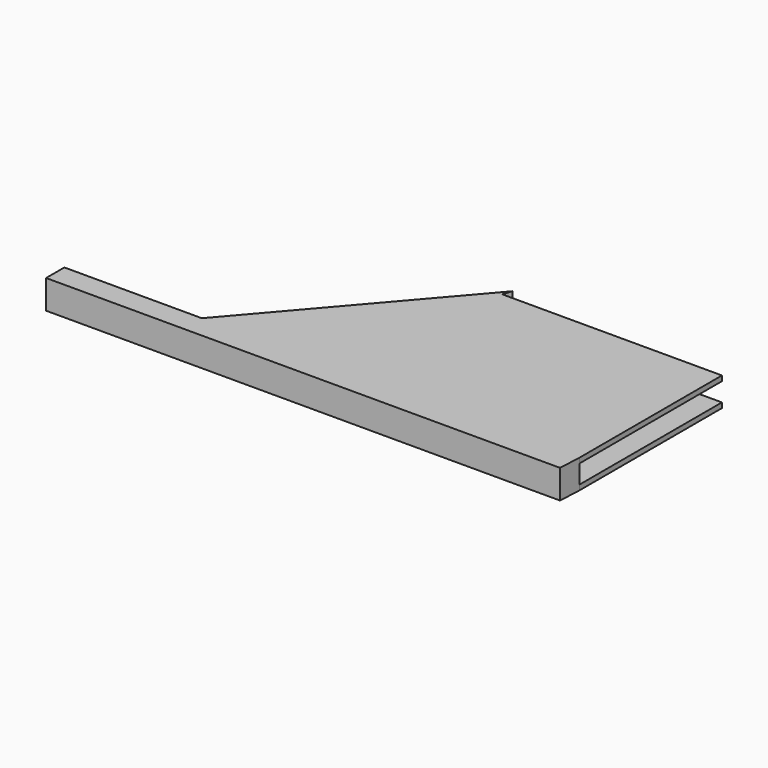
from build123d import *

# Parameters (mm, degrees)
F1_DEPTH = 3.4
F2_START = 0.6
F2_DEPTH = 2.2


with BuildPart() as f1:
    # F0 (on Top) → F1 (new body)
    with BuildSketch(Plane.XY):
        Polygon((22.546146065, 22.093931213), (3.5531178582, 0), (4.1273287497, 0), (22.2029884881, 21.0267882794), align=None)
        Polygon((22.2029884881, 21.0267882794), (4.1273287497, 0), (48.128593713, 0), (48.128593713, 21.0267882794), align=None)
        Polygon((3.5531178582, 0), (-12.671406287, 0), (-12.671406287, -2.7), (47.9993857443, -2.7), (48.128593713, 0), (4.1273287497, 0), align=None)
    extrude(amount=F1_DEPTH)

    # F0 (on Top) → F2 (cut)
    with BuildSketch(Plane.XY.offset(F2_START)):
        Polygon((22.2029884881, 21.0267882794), (4.1273287497, 0), (48.128593713, 0), (48.128593713, 21.0267882794), align=None)
        Polygon((48.128593713, 22.093931213), (22.546146065, 22.093931213), (22.2029884881, 21.0267882794), (48.128593713, 21.0267882794), align=None)
    extrude(amount=F2_DEPTH, mode=Mode.SUBTRACT)


solid = f1.part
